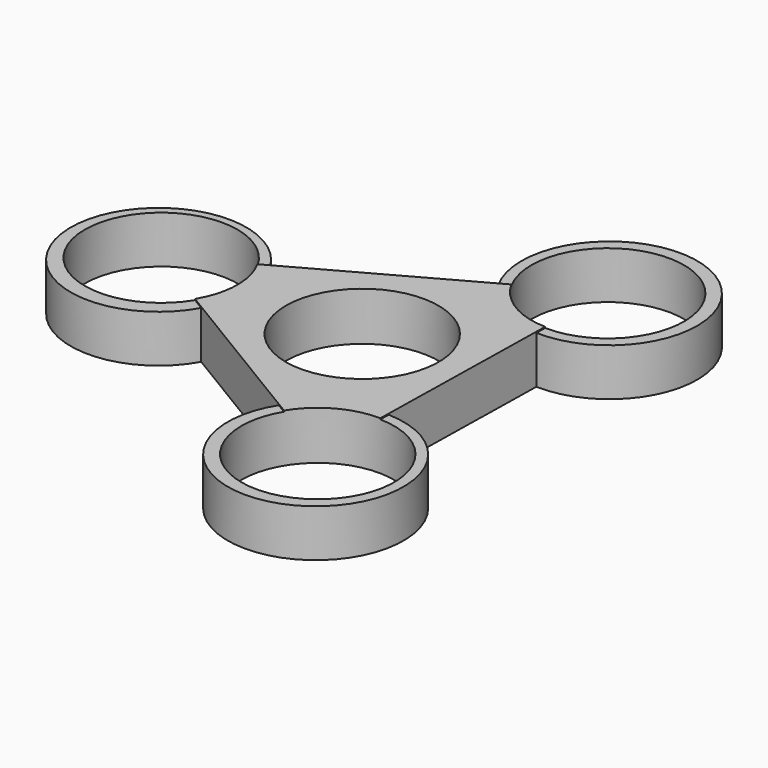
from build123d import *

# Parameters (mm, degrees)
F1_DEPTH = 7.0104
F2_D     = 22.060000076
F3_R     = 12.7
F4_DEPTH = 6.858
F5_R     = 12.7
F6_DEPTH = 6.858
F7_R     = 12.7
F8_DEPTH = 6.858
F9_D     = 22.060000076
F10_D    = 22.060000076
F11_D    = 22.060000076


with BuildPart() as f1:
    # F0 (on Top) → F1 (new body)
    with BuildSketch(Plane.XY):
        Polygon((15.2576936839, 25.2700417553), (-29.5133449568, 0.5785294558), (14.2556512728, -25.8485712111), align=None)
    extrude(amount=F1_DEPTH)

    # F2 (through all)
    with Locations(Plane(origin=(0, 0, 0), x_dir=(1, 0, 0), z_dir=(0, 0, -1))):
        with Locations((0, 0)):
            Hole(F2_D / 2)

    # F3 (on Top) → F4 (join)
    with BuildSketch(Plane.XY):
        with Locations((14.1001231968, -26.0360408574)):
            Circle(F3_R)
    extrude(amount=F4_DEPTH)

    # F5 (on Top) → F6 (join)
    with BuildSketch(Plane.XY):
        with Locations((15.4117625207, 25.3802221268)):
            Circle(F5_R)
    extrude(amount=F6_DEPTH)

    # F7 (on Top) → F8 (join)
    with BuildSketch(Plane.XY):
        with Locations((-29.4258532214, 0)):
            Circle(F7_R)
    extrude(amount=F8_DEPTH)

    # F9 (through all)
    with Locations(Plane(origin=(0, 0, 0), x_dir=(1, 0, 0), z_dir=(0, 0, -1))):
        with Locations((15.2576936839, -25.2700417553)):
            Hole(F9_D / 2)

    # F10 (through all)
    with Locations(Plane(origin=(0, 0, 0), x_dir=(1, 0, 0), z_dir=(0, 0, -1))):
        with Locations((14.2556512728, 25.8485712111)):
            Hole(F10_D / 2)

    # F11 (through all)
    with Locations(Plane(origin=(0, 0, 0), x_dir=(1, 0, 0), z_dir=(0, 0, -1))):
        with Locations((-29.5133449568, -0.5785294558)):
            Hole(F11_D / 2)


solid = f1.part
